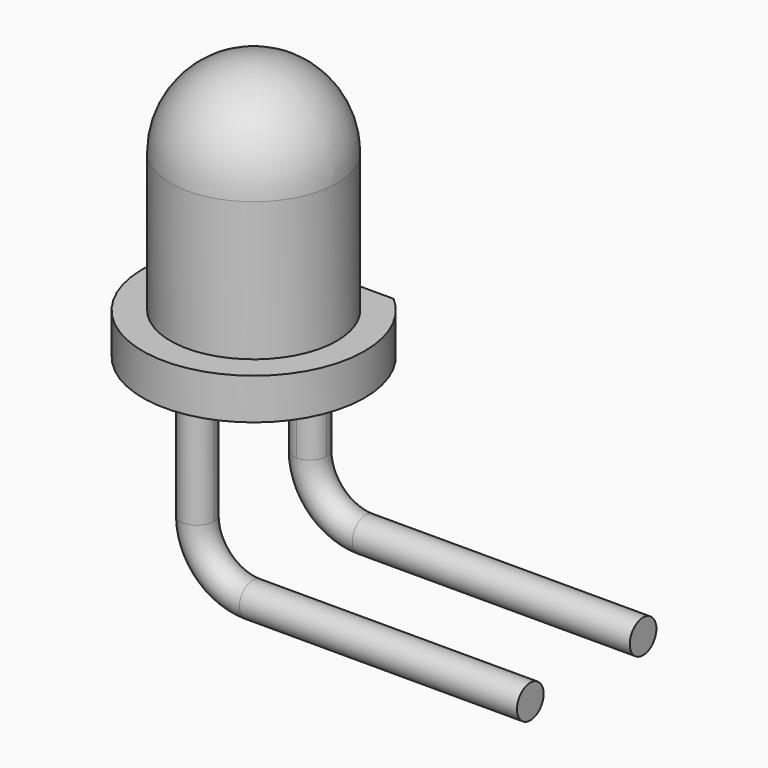
from build123d import *

# Parameters (mm, degrees)
F3_DEPTH  = 25
F5_DEPTH  = 2
F5_FACE_R = 0.3
F6_R      = 0.3
F7_ANGLE  = 90
F8_R      = 0.3
F7_FACE_R = 0.3
F9_DEPTH  = 5


with BuildPart() as f1:
    # F0 (on Front) → F1 (revolve)
    with BuildSketch(Plane.XZ):
        with BuildLine():
            Line((0, 4), (0, 0))
            Line((0, 0), (0, -0.7406895747))
            Line((0, -0.7406895747), (2, -0.7406895747))
            Line((2, -0.7406895747), (2, 0))
            Line((2, 0), (1.5, 0))
            Line((1.5, 0), (1.5, 2.5))
            ThreePointArc((1.5, 2.5), (1.0606601718, 3.5606601718), (0, 4))
        make_face()
    revolve(axis=Axis((0, 0, 2), (0, 0, 1)))

    # F2 (on face) → F3 (cut)
    with BuildSketch(Plane(origin=(0, 0, -0.7406895747), x_dir=(1, 0, 0), z_dir=(0, 0, -1))):
        with BuildLine():
            Line((1.3228756555, -1.5), (-1.3228756555, -1.5))
            ThreePointArc((-1.3228756555, -1.5), (0, -2), (1.3228756555, -1.5))
        make_face()
    extrude(amount=-F3_DEPTH, mode=Mode.SUBTRACT)

    # F4 (on face) → F5 (join)
    with BuildSketch(Plane(origin=(0, 0, -0.7406895747), x_dir=(1, 0, 0), z_dir=(0, 0, -1))):
        with BuildLine():
            ThreePointArc((0, 0.97), (0.2121320344, 1.0578679656), (0.3, 1.27))
            ThreePointArc((0.3, 1.27), (-0.2121320344, 1.4821320344), (0, 0.97))
        make_face()
        with BuildLine():
            ThreePointArc((0.3, -1.27), (0.2121320344, -1.0578679656), (0, -0.97))
            ThreePointArc((0, -0.97), (-0.2121320344, -1.4821320344), (0.3, -1.27))
        make_face()
    extrude(amount=F5_DEPTH)

    # F5_face (on face) + F6 (on face) → F7 (revolve)
    with BuildSketch(Plane(origin=(0, 1.27, -2.7406895747), x_dir=(1, 0, 0), z_dir=(0, 0, -1))):
        with Locations((0, 2.54)):
            Circle(F5_FACE_R)
    with BuildSketch(Plane(origin=(0, 0, -2.7406895747), x_dir=(1, 0, 0), z_dir=(0, 0, -1))):
        with Locations((0, -1.27)):
            Circle(F6_R)
    revolve(axis=Axis((1, 0.2732329885, -2.7406895747), (0, -1, 0)), revolution_arc=F7_ANGLE)

    # F8 (on face) + F7_face (on face) → F9 (join)
    with BuildSketch(Plane.YZ.offset(1)):
        with Locations((-1.27, -3.7406895747)):
            Circle(F8_R)
    with BuildSketch(Plane(origin=(1, -1.27, -3.7406895747), x_dir=(0, 1, 0), z_dir=(1, 0, 0))):
        with Locations((2.54, 0)):
            Circle(F7_FACE_R)
    extrude(amount=F9_DEPTH)


solid = f1.part
